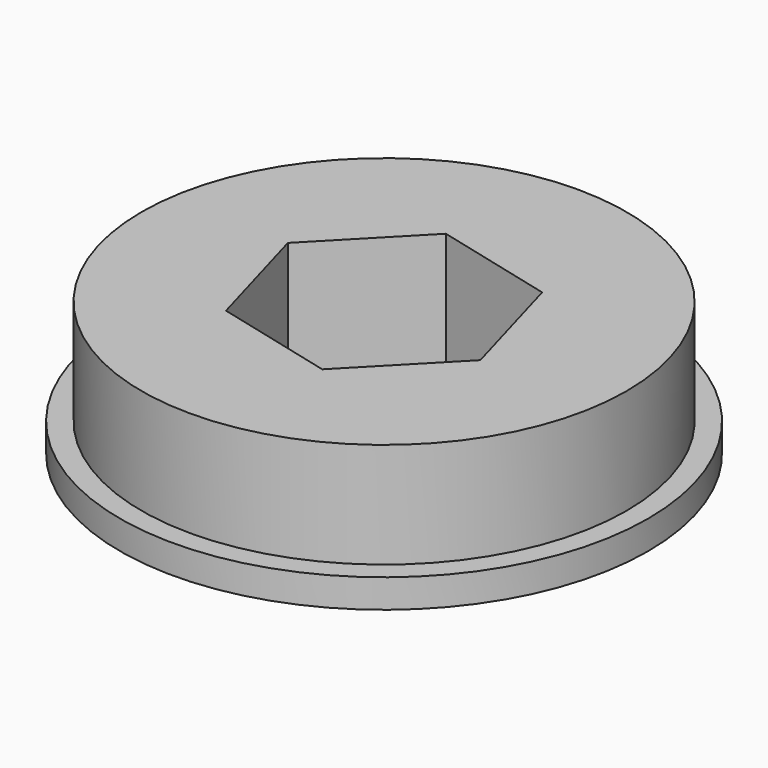
from build123d import *

# Parameters (mm, degrees)
F2_R     = 15.5575
F3_DEPTH = 1.6891
F1_R     = 14.29385
F4_DEPTH = 7.8994
F5_DEPTH = 25.4


with BuildPart() as f3:
    # F2 (on Top) → F3 (new body)
    with BuildSketch(Plane.XY):
        Circle(F2_R)
    extrude(amount=F3_DEPTH)

    # F1 (on Top) → F4 (join)
    with BuildSketch(Plane.XY):
        Circle(F1_R)
    extrude(amount=F4_DEPTH)

    # F0 (on Top) → F5 (cut)
    with BuildSketch(Plane.XY):
        Polygon((1.999529, -7.054447), (7.109095, -1.79558), (5.109565, 5.258866), (-1.999529, 7.054447), (-7.109095, 1.79558), (-5.109565, -5.258866), align=None)
    extrude(amount=F5_DEPTH, mode=Mode.SUBTRACT)


solid = f3.part
